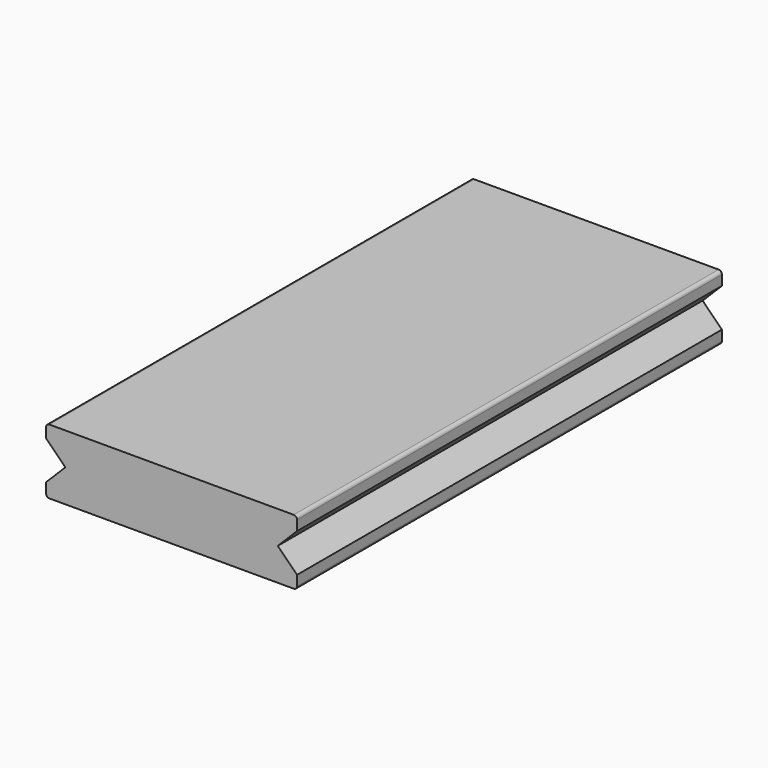
from build123d import *

# Parameters (mm, degrees)
F1_DEPTH      = 40
F1_DEPTH_BACK = 40


with BuildPart() as f1:
    # F0 (on Front) → F1 (new body, two sides)
    with BuildSketch(Plane.XZ) as f1_sk:
        with BuildLine():
            Line((18.4, 4.9), (0, 4.9))
            Line((0, 4.9), (-18.4, 4.9))
            ThreePointArc((-18.4, 4.9), (-18.753553, 4.753553), (-18.9, 4.4))
            Line((-18.9, 4.4), (-18.9, 2.9))
            Line((-18.9, 2.9), (-16, 0))
            Line((-16, 0), (-18.9, -2.9))
            Line((-18.9, -2.9), (-18.9, -4.4))
            ThreePointArc((-18.9, -4.4), (-18.753553, -4.753553), (-18.4, -4.9))
            Line((-18.4, -4.9), (0, -4.9))
            Line((0, -4.9), (18.4, -4.9))
            ThreePointArc((18.4, -4.9), (18.753553, -4.753553), (18.9, -4.4))
            Line((18.9, -4.4), (18.9, -2.9))
            Line((18.9, -2.9), (16, 0))
            Line((16, 0), (18.9, 2.9))
            Line((18.9, 2.9), (18.9, 4.4))
            ThreePointArc((18.9, 4.4), (18.753553, 4.753553), (18.4, 4.9))
        make_face()
    extrude(amount=F1_DEPTH)
    extrude(f1_sk.sketch, amount=-F1_DEPTH_BACK)


solid = f1.part
